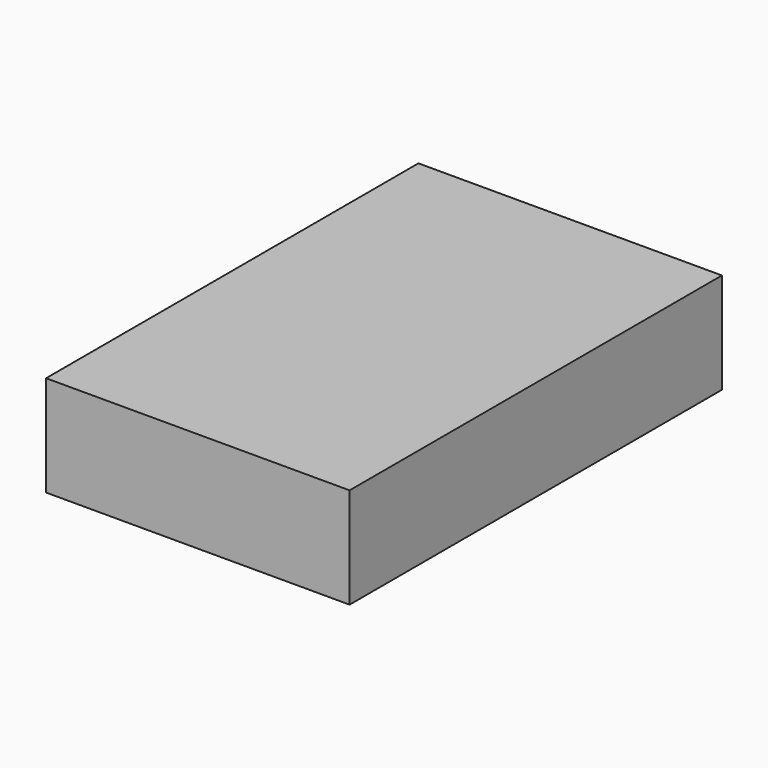
from build123d import *

# Parameters (mm, degrees)
BOX_W     = 30
BOX_H     = 46
BOX_DEPTH = 9.95


with BuildPart() as part:
    # Box → Box (new body)
    with BuildSketch(Plane.XY):
        with Locations((15, 23)):
            Rectangle(BOX_W, BOX_H)
    extrude(amount=BOX_DEPTH)


solid = part.part
